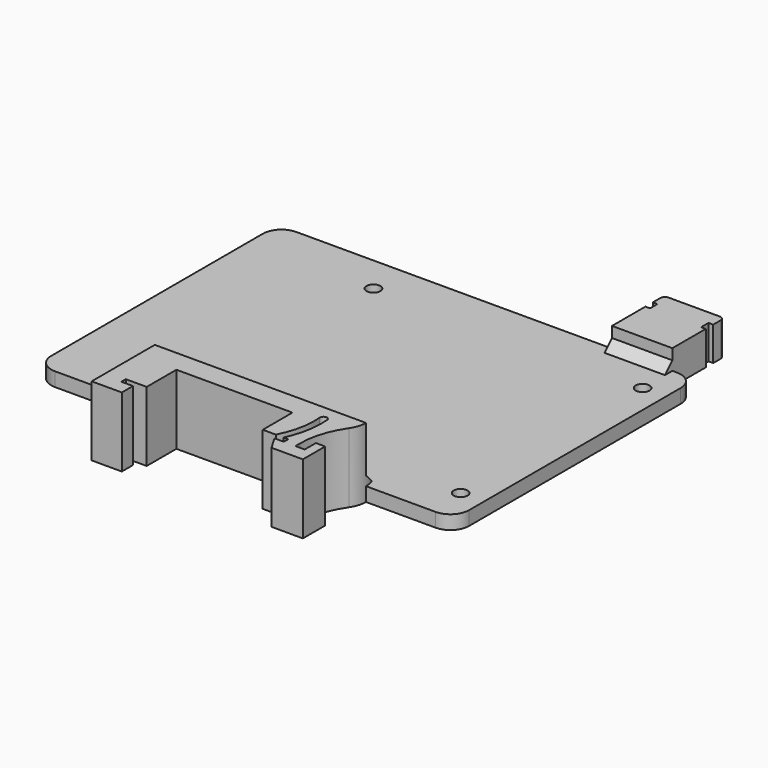
from build123d import *

# Parameters (mm, degrees)
SKETCH_W     = 90
SKETCH_H     = 65
SKETCH_R     = 1.5
PAD_DEPTH    = 3
PAD001_DEPTH = 7.3
PAD002_DEPTH = 15
FILLET_R     = 4
FILLET002_R  = 1
CHAMFER_SIZE = 2


with BuildPart() as part:
    # Sketch → Pad (new body)
    with BuildSketch(Plane.XY):
        with Locations((45, 32.5)):
            Rectangle(SKETCH_W, SKETCH_H)
        with Locations((27, 57)):
            Circle(SKETCH_R, mode=Mode.SUBTRACT)
        with Locations((85, 57)):
            Circle(SKETCH_R, mode=Mode.SUBTRACT)
        with Locations((85, 8)):
            Circle(SKETCH_R, mode=Mode.SUBTRACT)
        with Locations((27, 8)):
            Circle(SKETCH_R, mode=Mode.SUBTRACT)
    extrude(amount=PAD_DEPTH)

    # Sketch002 → Pad001 (join)
    with BuildSketch(Plane.XY):
        Polygon((85, 65), (85, 74), (84, 74), (84, 76), (85, 76), (85, 79), (72, 79), (72, 76), (73, 76), (73, 74), (72, 74), (72, 65), align=None)
    extrude(amount=PAD001_DEPTH)

    # Sketch003 → Pad002 (join)
    with BuildSketch(Plane.XY):
        with BuildLine():
            Line((25.5, 0), (25.5, -17))
            Line((25.5, -17), (32, -17))
            Line((32, -17), (32, -14))
            Line((32, -14), (29.5, -14))
            Line((29.5, -14), (29.5, -12.8))
            Line((29.5, -12.8), (34, -12.8))
            Line((34, -12.8), (34, -4.8))
            Line((34, -4.8), (59, -4.8))
            Line((59, -4.8), (59, -12.8))
            Line((59, -12.8), (61.825962, -12.8))
            ThreePointArc((61.825962, -12.8), (63.447393, -8.216284), (63.728416, -3.362367))
            ThreePointArc((65.223221, -3.237633), (64.413451, -2.552598), (63.728416, -3.362367))
            ThreePointArc((63.5, -12.8), (64.990453, -8.132139), (65.223221, -3.237633))
            Line((64.5, -12.8), (63.5, -12.8))
            Line((64.5, -14), (64.5, -12.8))
            Line((62.5, -14), (64.5, -14))
            Line((64.232051, -17), (62.5, -14))
            Line((71, -17), (64.232051, -17))
            Line((71, -11), (71, -17))
            Line((69, -11), (71, -11))
            Line((69, -14), (69, -11))
            Line((67, -14), (69, -14))
            Line((67, -14), (67, -12.8))
            ThreePointArc((69.968746, -3.3), (67.759472, -7.823469), (67, -12.8))
            ThreePointArc((69.968746, -3.3), (70.736182, -1.728691), (71, 0))
            Line((25.5, 0), (71, 0))
        make_face()
    extrude(amount=PAD002_DEPTH)

    # Fillet
    fillet_edges = [part.edges().sort_by_distance(p)[0] for p in [
        (90, 0, 1.5),
        (90, 65, 1.5),
        (0, 65, 1.5),
        (0, 0, 1.5),
    ]]
    fillet(fillet_edges, radius=FILLET_R)

    # Fillet002
    fillet002_edges = [part.edges().sort_by_distance(p)[0] for p in [
        (85, 79, 3.65),
        (72, 79, 3.65),
    ]]
    fillet(fillet002_edges, radius=FILLET002_R)

    # Chamfer
    chamfer_edges = [part.edges().sort_by_distance(p)[0] for p in [
        (78.5, 65, 3),
        (48.25, 0, 3),
    ]]
    chamfer(chamfer_edges, length=CHAMFER_SIZE)


solid = part.part
